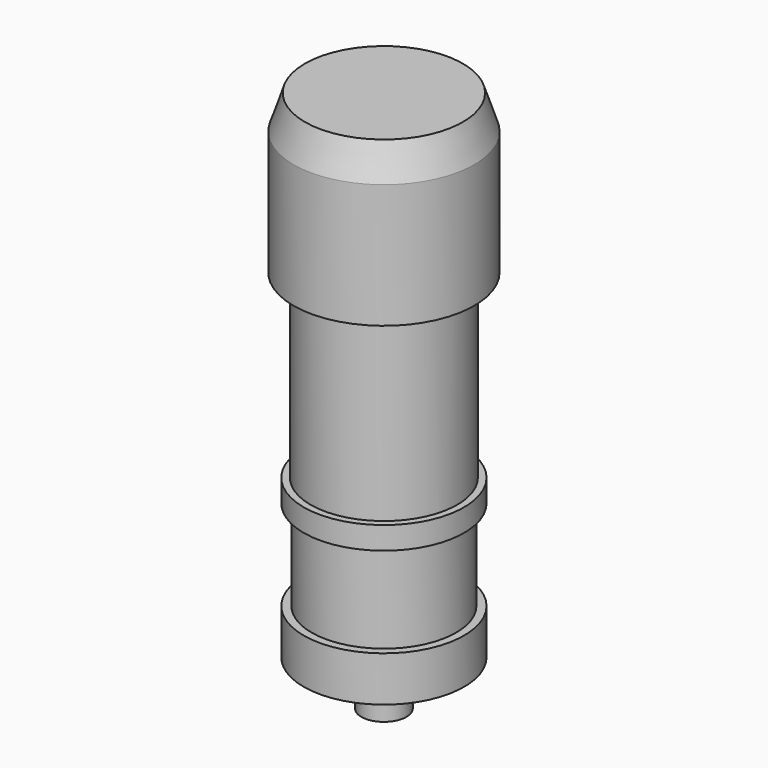
from build123d import *

# Parameters (mm, degrees)
CYLINDER020_R             = 3.2
CYLINDER020_DEPTH         = 22
CYLINDER021_R             = 3.55
CYLINDER021_DEPTH         = 2
CYLINDER022_R             = 3.55
CYLINDER022_DEPTH         = 1
CYLINDER023_R             = 3.25
CYLINDER023_DEPTH         = 8
CYLINDER024_R             = 4
CYLINDER024_DEPTH         = 5.5
CYLINDER025_R             = 1
CYLINDER025_DEPTH         = 2
FUSION055_PLACEMENT_ANGLE = 180


with BuildPart() as cylinder020:
    # Cylinder020 → Cylinder020 (new body)
    with BuildSketch(Plane.XY.offset(5)):
        Circle(CYLINDER020_R)
    extrude(amount=CYLINDER020_DEPTH)


with BuildPart() as cylinder021:
    # Cylinder021 → Cylinder021 (new body)
    with BuildSketch(Plane.XY.offset(5)):
        Circle(CYLINDER021_R)
    extrude(amount=CYLINDER021_DEPTH)


with BuildPart() as cylinder022:
    # Cylinder022 → Cylinder022 (new body)
    with BuildSketch(Plane.XY.offset(11)):
        Circle(CYLINDER022_R)
    extrude(amount=CYLINDER022_DEPTH)


with BuildPart() as cylinder023:
    # Cylinder023 → Cylinder023 (new body)
    with BuildSketch(Plane.XY.offset(12)):
        Circle(CYLINDER023_R)
    extrude(amount=CYLINDER023_DEPTH)


with BuildPart() as cylinder024:
    # Cylinder024 → Cylinder024 (new body)
    with BuildSketch(Plane.XY.offset(20)):
        Circle(CYLINDER024_R)
    extrude(amount=CYLINDER024_DEPTH)


with BuildPart() as fusion002:
    # Cone → Cone (revolve)
    with BuildSketch(Plane(origin=(0, 0, 25.5), x_dir=(1, 0, 0), z_dir=(0, -1, 0))):
        Polygon((0, 0), (4, 0), (3.5, 1.5), (0, 1.5), align=None)
    revolve(axis=Axis((0, 0, 25.5), (0, 0, 1)))

    # Fusion002: union Cylinder020, Cylinder021, Cylinder022, Cylinder023, Cylinder024
    add(cylinder020.part)
    add(cylinder021.part)
    add(cylinder022.part)
    add(cylinder023.part)
    add(cylinder024.part)


with BuildPart() as mic:
    # Cylinder025 → Cylinder025 (new body)
    with BuildSketch(Plane.XY.offset(3)):
        Circle(CYLINDER025_R)
    extrude(amount=CYLINDER025_DEPTH)

    # Fusion055: union Fusion002
    add(fusion002.part)


with BuildPart() as mic_1:
    # Fusion055 placement: moved
    add(mic.part.moved(Location((137.5, 137.5, 108.25))).rotate(Axis((137.5, 137.5, 108.25), (0, 0, 1)), FUSION055_PLACEMENT_ANGLE))


solid = mic_1.part
